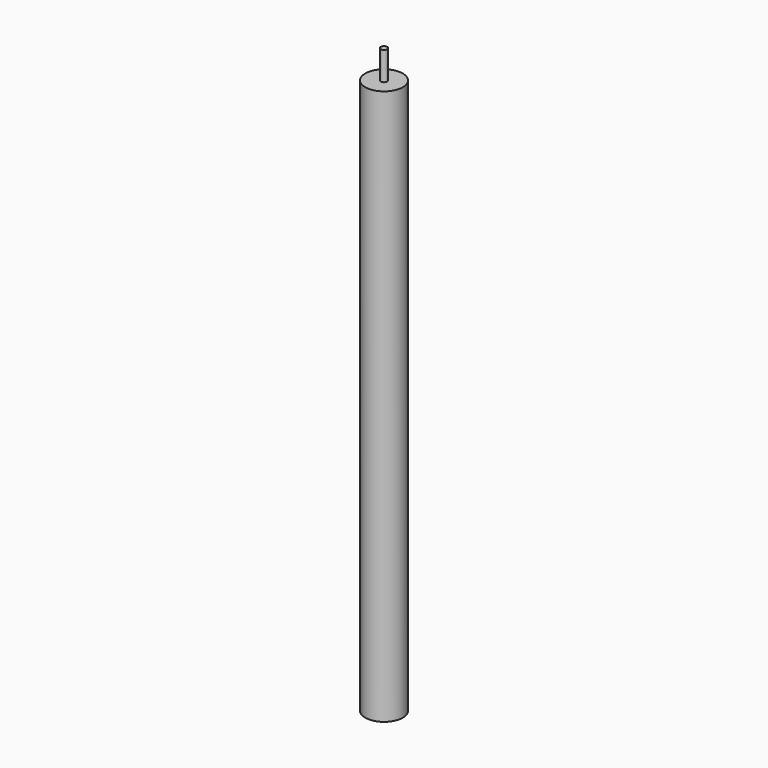
from build123d import *

# Parameters (mm, degrees)
F0_R     = 0.29972
F1_DEPTH = 2.6035
F2_R     = 1.7145
F3_DEPTH = 50.8


with BuildPart() as f1:
    # F0 (on Top) → F1 (new body)
    with BuildSketch(Plane.XY):
        Circle(F0_R)
    extrude(amount=-F1_DEPTH)

    # F2 (on face) → F3 (join)
    with BuildSketch(Plane(origin=(0, 0, -2.6035), x_dir=(1, 0, 0), z_dir=(0, 0, -1))):
        Circle(F2_R)
    extrude(amount=F3_DEPTH)


solid = f1.part
